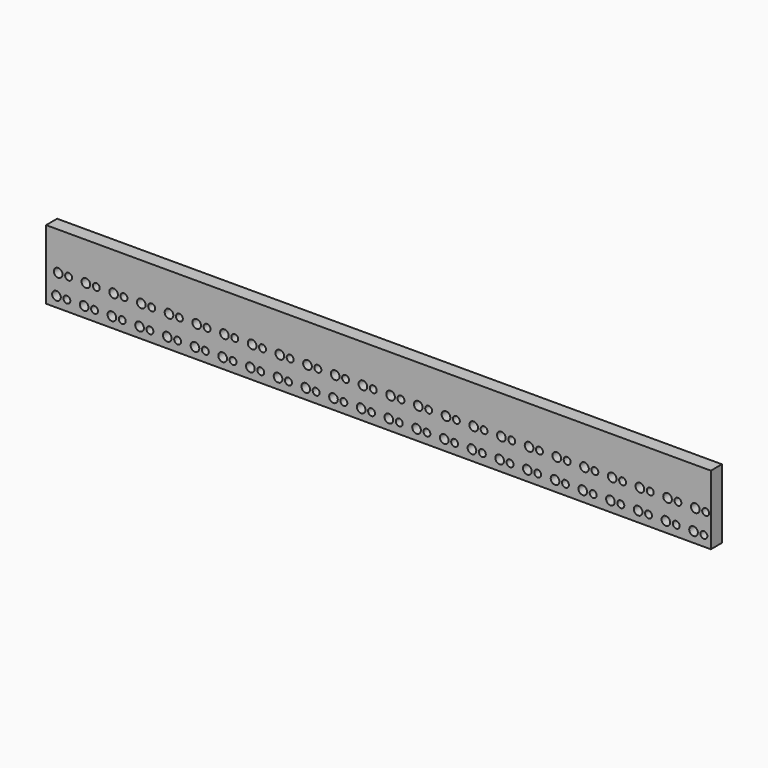
from build123d import *

# Parameters (mm, degrees)
F0_W     = 1219.2
F0_H     = 127
F0_R     = 7.9375
F0_R_2   = 6.35
F1_DEPTH = 25.4


with BuildPart() as f1:
    # F0 (on Front) → F1 (new body)
    with BuildSketch(Plane.XZ):
        with Locations((609.6, 246.335984)):
            Rectangle(F0_W, F0_H)
        with Locations((19.05, 201.885984)):
            Circle(F0_R, mode=Mode.SUBTRACT)
        with BuildLine():
            ThreePointArc((31.75, 201.885984), (38.1, 208.235984), (44.45, 201.885984))
            ThreePointArc((44.45, 201.885984), (38.1, 195.535984), (31.75, 201.885984))
        make_face(mode=Mode.SUBTRACT)
        with BuildLine():
            ThreePointArc((61.9125, 201.885984), (69.85, 209.823484), (77.7875, 201.885984))
            ThreePointArc((77.7875, 201.885984), (69.85, 193.948484), (61.9125, 201.885984))
        make_face(mode=Mode.SUBTRACT)
        with BuildLine():
            ThreePointArc((82.55, 201.885984), (88.9, 208.235984), (95.25, 201.885984))
            ThreePointArc((95.25, 201.885984), (88.9, 195.535984), (82.55, 201.885984))
        make_face(mode=Mode.SUBTRACT)
        with BuildLine():
            ThreePointArc((112.7125, 201.885984), (120.65, 209.823484), (128.5875, 201.885984))
            ThreePointArc((128.5875, 201.885984), (120.65, 193.948484), (112.7125, 201.885984))
        make_face(mode=Mode.SUBTRACT)
        with BuildLine():
            ThreePointArc((133.35, 201.885984), (139.7, 208.235984), (146.05, 201.885984))
            ThreePointArc((146.05, 201.885984), (139.7, 195.535984), (133.35, 201.885984))
        make_face(mode=Mode.SUBTRACT)
        with BuildLine():
            ThreePointArc((163.5125, 201.885984), (171.45, 209.823484), (179.3875, 201.885984))
            ThreePointArc((179.3875, 201.885984), (171.45, 193.948484), (163.5125, 201.885984))
        make_face(mode=Mode.SUBTRACT)
        with BuildLine():
            ThreePointArc((184.15, 201.885984), (190.5, 208.235984), (196.85, 201.885984))
            ThreePointArc((196.85, 201.885984), (190.5, 195.535984), (184.15, 201.885984))
        make_face(mode=Mode.SUBTRACT)
        with BuildLine():
            ThreePointArc((214.3125, 201.885984), (222.25, 209.823484), (230.1875, 201.885984))
            ThreePointArc((230.1875, 201.885984), (222.25, 193.948484), (214.3125, 201.885984))
        make_face(mode=Mode.SUBTRACT)
        with BuildLine():
            ThreePointArc((234.95, 201.885984), (241.3, 208.235984), (247.65, 201.885984))
            ThreePointArc((247.65, 201.885984), (241.3, 195.535984), (234.95, 201.885984))
        make_face(mode=Mode.SUBTRACT)
        with BuildLine():
            ThreePointArc((265.1125, 201.885984), (273.05, 209.823484), (280.9875, 201.885984))
            ThreePointArc((280.9875, 201.885984), (273.05, 193.948484), (265.1125, 201.885984))
        make_face(mode=Mode.SUBTRACT)
        with BuildLine():
            ThreePointArc((285.75, 201.885984), (292.1, 208.235984), (298.45, 201.885984))
            ThreePointArc((298.45, 201.885984), (292.1, 195.535984), (285.75, 201.885984))
        make_face(mode=Mode.SUBTRACT)
        with BuildLine():
            ThreePointArc((315.9125, 201.885984), (323.85, 209.823484), (331.7875, 201.885984))
            ThreePointArc((331.7875, 201.885984), (323.85, 193.948484), (315.9125, 201.885984))
        make_face(mode=Mode.SUBTRACT)
        with BuildLine():
            ThreePointArc((336.55, 201.885984), (342.9, 208.235984), (349.25, 201.885984))
            ThreePointArc((349.25, 201.885984), (342.9, 195.535984), (336.55, 201.885984))
        make_face(mode=Mode.SUBTRACT)
        with BuildLine():
            ThreePointArc((366.7125, 201.885984), (374.65, 209.823484), (382.5875, 201.885984))
            ThreePointArc((382.5875, 201.885984), (374.65, 193.948484), (366.7125, 201.885984))
        make_face(mode=Mode.SUBTRACT)
        with BuildLine():
            ThreePointArc((387.35, 201.885984), (393.7, 208.235984), (400.05, 201.885984))
            ThreePointArc((400.05, 201.885984), (393.7, 195.535984), (387.35, 201.885984))
        make_face(mode=Mode.SUBTRACT)
        with BuildLine():
            ThreePointArc((417.5125, 201.885984), (425.45, 209.823484), (433.3875, 201.885984))
            ThreePointArc((433.3875, 201.885984), (425.45, 193.948484), (417.5125, 201.885984))
        make_face(mode=Mode.SUBTRACT)
        with BuildLine():
            ThreePointArc((438.15, 201.885984), (444.5, 208.235984), (450.85, 201.885984))
            ThreePointArc((450.85, 201.885984), (444.5, 195.535984), (438.15, 201.885984))
        make_face(mode=Mode.SUBTRACT)
        with BuildLine():
            ThreePointArc((468.3125, 201.885984), (476.25, 209.823484), (484.1875, 201.885984))
            ThreePointArc((484.1875, 201.885984), (476.25, 193.948484), (468.3125, 201.885984))
        make_face(mode=Mode.SUBTRACT)
        with BuildLine():
            ThreePointArc((488.95, 201.885984), (495.3, 208.235984), (501.65, 201.885984))
            ThreePointArc((501.65, 201.885984), (495.3, 195.535984), (488.95, 201.885984))
        make_face(mode=Mode.SUBTRACT)
        with BuildLine():
            ThreePointArc((519.1125, 201.885984), (527.05, 209.823484), (534.9875, 201.885984))
            ThreePointArc((534.9875, 201.885984), (527.05, 193.948484), (519.1125, 201.885984))
        make_face(mode=Mode.SUBTRACT)
        with BuildLine():
            ThreePointArc((539.75, 201.885984), (546.1, 208.235984), (552.45, 201.885984))
            ThreePointArc((552.45, 201.885984), (546.1, 195.535984), (539.75, 201.885984))
        make_face(mode=Mode.SUBTRACT)
        with BuildLine():
            ThreePointArc((569.9125, 201.885984), (577.85, 209.823484), (585.7875, 201.885984))
            ThreePointArc((585.7875, 201.885984), (577.85, 193.948484), (569.9125, 201.885984))
        make_face(mode=Mode.SUBTRACT)
        with BuildLine():
            ThreePointArc((590.55, 201.885984), (596.9, 208.235984), (603.25, 201.885984))
            ThreePointArc((603.25, 201.885984), (596.9, 195.535984), (590.55, 201.885984))
        make_face(mode=Mode.SUBTRACT)
        with BuildLine():
            ThreePointArc((620.7125, 201.885984), (628.65, 209.823484), (636.5875, 201.885984))
            ThreePointArc((636.5875, 201.885984), (628.65, 193.948484), (620.7125, 201.885984))
        make_face(mode=Mode.SUBTRACT)
        with Locations((22.225, 239.985984)):
            Circle(F0_R, mode=Mode.SUBTRACT)
        with BuildLine():
            ThreePointArc((47.625, 239.985984), (41.275, 233.635984), (34.925, 239.985984))
            ThreePointArc((34.925, 239.985984), (41.275, 246.335984), (47.625, 239.985984))
        make_face(mode=Mode.SUBTRACT)
        with BuildLine():
            ThreePointArc((80.9625, 239.985984), (73.025, 232.048484), (65.0875, 239.985984))
            ThreePointArc((65.0875, 239.985984), (73.025, 247.923484), (80.9625, 239.985984))
        make_face(mode=Mode.SUBTRACT)
        with BuildLine():
            ThreePointArc((98.425, 239.985984), (92.075, 233.635984), (85.725, 239.985984))
            ThreePointArc((85.725, 239.985984), (92.075, 246.335984), (98.425, 239.985984))
        make_face(mode=Mode.SUBTRACT)
        with BuildLine():
            ThreePointArc((131.7625, 239.985984), (123.825, 232.048484), (115.8875, 239.985984))
            ThreePointArc((115.8875, 239.985984), (123.825, 247.923484), (131.7625, 239.985984))
        make_face(mode=Mode.SUBTRACT)
        with BuildLine():
            ThreePointArc((149.225, 239.985984), (142.875, 233.635984), (136.525, 239.985984))
            ThreePointArc((136.525, 239.985984), (142.875, 246.335984), (149.225, 239.985984))
        make_face(mode=Mode.SUBTRACT)
        with BuildLine():
            ThreePointArc((182.5625, 239.985984), (174.625, 232.048484), (166.6875, 239.985984))
            ThreePointArc((166.6875, 239.985984), (174.625, 247.923484), (182.5625, 239.985984))
        make_face(mode=Mode.SUBTRACT)
        with BuildLine():
            ThreePointArc((200.025, 239.985984), (193.675, 233.635984), (187.325, 239.985984))
            ThreePointArc((187.325, 239.985984), (193.675, 246.335984), (200.025, 239.985984))
        make_face(mode=Mode.SUBTRACT)
        with BuildLine():
            ThreePointArc((233.3625, 239.985984), (225.425, 232.048484), (217.4875, 239.985984))
            ThreePointArc((217.4875, 239.985984), (225.425, 247.923484), (233.3625, 239.985984))
        make_face(mode=Mode.SUBTRACT)
        with BuildLine():
            ThreePointArc((250.825, 239.985984), (244.475, 233.635984), (238.125, 239.985984))
            ThreePointArc((238.125, 239.985984), (244.475, 246.335984), (250.825, 239.985984))
        make_face(mode=Mode.SUBTRACT)
        with BuildLine():
            ThreePointArc((284.1625, 239.985984), (276.225, 232.048484), (268.2875, 239.985984))
            ThreePointArc((268.2875, 239.985984), (276.225, 247.923484), (284.1625, 239.985984))
        make_face(mode=Mode.SUBTRACT)
        with BuildLine():
            ThreePointArc((301.625, 239.985984), (295.275, 233.635984), (288.925, 239.985984))
            ThreePointArc((288.925, 239.985984), (295.275, 246.335984), (301.625, 239.985984))
        make_face(mode=Mode.SUBTRACT)
        with BuildLine():
            ThreePointArc((334.9625, 239.985984), (327.025, 232.048484), (319.0875, 239.985984))
            ThreePointArc((319.0875, 239.985984), (327.025, 247.923484), (334.9625, 239.985984))
        make_face(mode=Mode.SUBTRACT)
        with BuildLine():
            ThreePointArc((352.425, 239.985984), (346.075, 233.635984), (339.725, 239.985984))
            ThreePointArc((339.725, 239.985984), (346.075, 246.335984), (352.425, 239.985984))
        make_face(mode=Mode.SUBTRACT)
        with BuildLine():
            ThreePointArc((385.7625, 239.985984), (377.825, 232.048484), (369.8875, 239.985984))
            ThreePointArc((369.8875, 239.985984), (377.825, 247.923484), (385.7625, 239.985984))
        make_face(mode=Mode.SUBTRACT)
        with BuildLine():
            ThreePointArc((403.225, 239.985984), (396.875, 233.635984), (390.525, 239.985984))
            ThreePointArc((390.525, 239.985984), (396.875, 246.335984), (403.225, 239.985984))
        make_face(mode=Mode.SUBTRACT)
        with BuildLine():
            ThreePointArc((436.5625, 239.985984), (428.625, 232.048484), (420.6875, 239.985984))
            ThreePointArc((420.6875, 239.985984), (428.625, 247.923484), (436.5625, 239.985984))
        make_face(mode=Mode.SUBTRACT)
        with BuildLine():
            ThreePointArc((454.025, 239.985984), (447.675, 233.635984), (441.325, 239.985984))
            ThreePointArc((441.325, 239.985984), (447.675, 246.335984), (454.025, 239.985984))
        make_face(mode=Mode.SUBTRACT)
        with BuildLine():
            ThreePointArc((487.3625, 239.985984), (479.425, 232.048484), (471.4875, 239.985984))
            ThreePointArc((471.4875, 239.985984), (479.425, 247.923484), (487.3625, 239.985984))
        make_face(mode=Mode.SUBTRACT)
        with BuildLine():
            ThreePointArc((504.825, 239.985984), (498.475, 233.635984), (492.125, 239.985984))
            ThreePointArc((492.125, 239.985984), (498.475, 246.335984), (504.825, 239.985984))
        make_face(mode=Mode.SUBTRACT)
        with BuildLine():
            ThreePointArc((538.1625, 239.985984), (530.225, 232.048484), (522.2875, 239.985984))
            ThreePointArc((522.2875, 239.985984), (530.225, 247.923484), (538.1625, 239.985984))
        make_face(mode=Mode.SUBTRACT)
        with BuildLine():
            ThreePointArc((555.625, 239.985984), (549.275, 233.635984), (542.925, 239.985984))
            ThreePointArc((542.925, 239.985984), (549.275, 246.335984), (555.625, 239.985984))
        make_face(mode=Mode.SUBTRACT)
        with BuildLine():
            ThreePointArc((588.9625, 239.985984), (581.025, 232.048484), (573.0875, 239.985984))
            ThreePointArc((573.0875, 239.985984), (581.025, 247.923484), (588.9625, 239.985984))
        make_face(mode=Mode.SUBTRACT)
        with BuildLine():
            ThreePointArc((606.425, 239.985984), (600.075, 233.635984), (593.725, 239.985984))
            ThreePointArc((593.725, 239.985984), (600.075, 246.335984), (606.425, 239.985984))
        make_face(mode=Mode.SUBTRACT)
        with BuildLine():
            ThreePointArc((639.7625, 239.985984), (631.825, 232.048484), (623.8875, 239.985984))
            ThreePointArc((623.8875, 239.985984), (631.825, 247.923484), (639.7625, 239.985984))
        make_face(mode=Mode.SUBTRACT)
        with BuildLine():
            ThreePointArc((641.35, 201.885984), (647.7, 208.235984), (654.05, 201.885984))
            ThreePointArc((654.05, 201.885984), (647.7, 195.535984), (641.35, 201.885984))
        make_face(mode=Mode.SUBTRACT)
        with BuildLine():
            ThreePointArc((671.5125, 201.885984), (679.45, 209.823484), (687.3875, 201.885984))
            ThreePointArc((687.3875, 201.885984), (679.45, 193.948484), (671.5125, 201.885984))
        make_face(mode=Mode.SUBTRACT)
        with BuildLine():
            ThreePointArc((692.15, 201.885984), (698.5, 208.235984), (704.85, 201.885984))
            ThreePointArc((704.85, 201.885984), (698.5, 195.535984), (692.15, 201.885984))
        make_face(mode=Mode.SUBTRACT)
        with BuildLine():
            ThreePointArc((722.3125, 201.885984), (730.25, 209.823484), (738.1875, 201.885984))
            ThreePointArc((738.1875, 201.885984), (730.25, 193.948484), (722.3125, 201.885984))
        make_face(mode=Mode.SUBTRACT)
        with BuildLine():
            ThreePointArc((742.95, 201.885984), (749.3, 208.235984), (755.65, 201.885984))
            ThreePointArc((755.65, 201.885984), (749.3, 195.535984), (742.95, 201.885984))
        make_face(mode=Mode.SUBTRACT)
        with BuildLine():
            ThreePointArc((773.1125, 201.885984), (781.05, 209.823484), (788.9875, 201.885984))
            ThreePointArc((788.9875, 201.885984), (781.05, 193.948484), (773.1125, 201.885984))
        make_face(mode=Mode.SUBTRACT)
        with BuildLine():
            ThreePointArc((793.75, 201.885984), (800.1, 208.235984), (806.45, 201.885984))
            ThreePointArc((806.45, 201.885984), (800.1, 195.535984), (793.75, 201.885984))
        make_face(mode=Mode.SUBTRACT)
        with BuildLine():
            ThreePointArc((823.9125, 201.885984), (831.85, 209.823484), (839.7875, 201.885984))
            ThreePointArc((839.7875, 201.885984), (831.85, 193.948484), (823.9125, 201.885984))
        make_face(mode=Mode.SUBTRACT)
        with BuildLine():
            ThreePointArc((844.55, 201.885984), (850.9, 208.235984), (857.25, 201.885984))
            ThreePointArc((857.25, 201.885984), (850.9, 195.535984), (844.55, 201.885984))
        make_face(mode=Mode.SUBTRACT)
        with BuildLine():
            ThreePointArc((874.7125, 201.885984), (882.65, 209.823484), (890.5875, 201.885984))
            ThreePointArc((890.5875, 201.885984), (882.65, 193.948484), (874.7125, 201.885984))
        make_face(mode=Mode.SUBTRACT)
        with BuildLine():
            ThreePointArc((895.35, 201.885984), (901.7, 208.235984), (908.05, 201.885984))
            ThreePointArc((908.05, 201.885984), (901.7, 195.535984), (895.35, 201.885984))
        make_face(mode=Mode.SUBTRACT)
        with BuildLine():
            ThreePointArc((925.5125, 201.885984), (933.45, 209.823484), (941.3875, 201.885984))
            ThreePointArc((941.3875, 201.885984), (933.45, 193.948484), (925.5125, 201.885984))
        make_face(mode=Mode.SUBTRACT)
        with BuildLine():
            ThreePointArc((946.15, 201.885984), (952.5, 208.235984), (958.85, 201.885984))
            ThreePointArc((958.85, 201.885984), (952.5, 195.535984), (946.15, 201.885984))
        make_face(mode=Mode.SUBTRACT)
        with BuildLine():
            ThreePointArc((976.3125, 201.885984), (984.25, 209.823484), (992.1875, 201.885984))
            ThreePointArc((992.1875, 201.885984), (984.25, 193.948484), (976.3125, 201.885984))
        make_face(mode=Mode.SUBTRACT)
        with BuildLine():
            ThreePointArc((996.95, 201.885984), (1003.3, 208.235984), (1009.65, 201.885984))
            ThreePointArc((1009.65, 201.885984), (1003.3, 195.535984), (996.95, 201.885984))
        make_face(mode=Mode.SUBTRACT)
        with BuildLine():
            ThreePointArc((1027.1125, 201.885984), (1035.05, 209.823484), (1042.9875, 201.885984))
            ThreePointArc((1042.9875, 201.885984), (1035.05, 193.948484), (1027.1125, 201.885984))
        make_face(mode=Mode.SUBTRACT)
        with BuildLine():
            ThreePointArc((1047.75, 201.885984), (1054.1, 208.235984), (1060.45, 201.885984))
            ThreePointArc((1060.45, 201.885984), (1054.1, 195.535984), (1047.75, 201.885984))
        make_face(mode=Mode.SUBTRACT)
        with BuildLine():
            ThreePointArc((1077.9125, 201.885984), (1085.85, 209.823484), (1093.7875, 201.885984))
            ThreePointArc((1093.7875, 201.885984), (1085.85, 193.948484), (1077.9125, 201.885984))
        make_face(mode=Mode.SUBTRACT)
        with BuildLine():
            ThreePointArc((1098.55, 201.885984), (1104.9, 208.235984), (1111.25, 201.885984))
            ThreePointArc((1111.25, 201.885984), (1104.9, 195.535984), (1098.55, 201.885984))
        make_face(mode=Mode.SUBTRACT)
        with BuildLine():
            ThreePointArc((1128.7125, 201.885984), (1136.65, 209.823484), (1144.5875, 201.885984))
            ThreePointArc((1144.5875, 201.885984), (1136.65, 193.948484), (1128.7125, 201.885984))
        make_face(mode=Mode.SUBTRACT)
        with BuildLine():
            ThreePointArc((1149.35, 201.885984), (1155.7, 208.235984), (1162.05, 201.885984))
            ThreePointArc((1162.05, 201.885984), (1155.7, 195.535984), (1149.35, 201.885984))
        make_face(mode=Mode.SUBTRACT)
        with BuildLine():
            ThreePointArc((1179.5125, 201.885984), (1187.45, 209.823484), (1195.3875, 201.885984))
            ThreePointArc((1195.3875, 201.885984), (1187.45, 193.948484), (1179.5125, 201.885984))
        make_face(mode=Mode.SUBTRACT)
        with BuildLine():
            ThreePointArc((1212.85, 201.885984), (1206.5, 195.535984), (1200.15, 201.885984))
            ThreePointArc((1200.15, 201.885984), (1206.5, 208.235984), (1212.85, 201.885984))
        make_face(mode=Mode.SUBTRACT)
        with BuildLine():
            ThreePointArc((657.225, 239.985984), (650.875, 233.635984), (644.525, 239.985984))
            ThreePointArc((644.525, 239.985984), (650.875, 246.335984), (657.225, 239.985984))
        make_face(mode=Mode.SUBTRACT)
        with BuildLine():
            ThreePointArc((690.5625, 239.985984), (682.625, 232.048484), (674.6875, 239.985984))
            ThreePointArc((674.6875, 239.985984), (682.625, 247.923484), (690.5625, 239.985984))
        make_face(mode=Mode.SUBTRACT)
        with BuildLine():
            ThreePointArc((708.025, 239.985984), (701.675, 233.635984), (695.325, 239.985984))
            ThreePointArc((695.325, 239.985984), (701.675, 246.335984), (708.025, 239.985984))
        make_face(mode=Mode.SUBTRACT)
        with BuildLine():
            ThreePointArc((741.3625, 239.985984), (733.425, 232.048484), (725.4875, 239.985984))
            ThreePointArc((725.4875, 239.985984), (733.425, 247.923484), (741.3625, 239.985984))
        make_face(mode=Mode.SUBTRACT)
        with BuildLine():
            ThreePointArc((758.825, 239.985984), (752.475, 233.635984), (746.125, 239.985984))
            ThreePointArc((746.125, 239.985984), (752.475, 246.335984), (758.825, 239.985984))
        make_face(mode=Mode.SUBTRACT)
        with BuildLine():
            ThreePointArc((792.1625, 239.985984), (784.225, 232.048484), (776.2875, 239.985984))
            ThreePointArc((776.2875, 239.985984), (784.225, 247.923484), (792.1625, 239.985984))
        make_face(mode=Mode.SUBTRACT)
        with BuildLine():
            ThreePointArc((809.625, 239.985984), (803.275, 233.635984), (796.925, 239.985984))
            ThreePointArc((796.925, 239.985984), (803.275, 246.335984), (809.625, 239.985984))
        make_face(mode=Mode.SUBTRACT)
        with BuildLine():
            ThreePointArc((842.9625, 239.985984), (835.025, 232.048484), (827.0875, 239.985984))
            ThreePointArc((827.0875, 239.985984), (835.025, 247.923484), (842.9625, 239.985984))
        make_face(mode=Mode.SUBTRACT)
        with BuildLine():
            ThreePointArc((860.425, 239.985984), (854.075, 233.635984), (847.725, 239.985984))
            ThreePointArc((847.725, 239.985984), (854.075, 246.335984), (860.425, 239.985984))
        make_face(mode=Mode.SUBTRACT)
        with BuildLine():
            ThreePointArc((893.7625, 239.985984), (885.825, 232.048484), (877.8875, 239.985984))
            ThreePointArc((877.8875, 239.985984), (885.825, 247.923484), (893.7625, 239.985984))
        make_face(mode=Mode.SUBTRACT)
        with BuildLine():
            ThreePointArc((911.225, 239.985984), (904.875, 233.635984), (898.525, 239.985984))
            ThreePointArc((898.525, 239.985984), (904.875, 246.335984), (911.225, 239.985984))
        make_face(mode=Mode.SUBTRACT)
        with BuildLine():
            ThreePointArc((944.5625, 239.985984), (936.625, 232.048484), (928.6875, 239.985984))
            ThreePointArc((928.6875, 239.985984), (936.625, 247.923484), (944.5625, 239.985984))
        make_face(mode=Mode.SUBTRACT)
        with BuildLine():
            ThreePointArc((962.025, 239.985984), (955.675, 233.635984), (949.325, 239.985984))
            ThreePointArc((949.325, 239.985984), (955.675, 246.335984), (962.025, 239.985984))
        make_face(mode=Mode.SUBTRACT)
        with BuildLine():
            ThreePointArc((995.3625, 239.985984), (987.425, 232.048484), (979.4875, 239.985984))
            ThreePointArc((979.4875, 239.985984), (987.425, 247.923484), (995.3625, 239.985984))
        make_face(mode=Mode.SUBTRACT)
        with BuildLine():
            ThreePointArc((1012.825, 239.985984), (1006.475, 233.635984), (1000.125, 239.985984))
            ThreePointArc((1000.125, 239.985984), (1006.475, 246.335984), (1012.825, 239.985984))
        make_face(mode=Mode.SUBTRACT)
        with BuildLine():
            ThreePointArc((1046.1625, 239.985984), (1038.225, 232.048484), (1030.2875, 239.985984))
            ThreePointArc((1030.2875, 239.985984), (1038.225, 247.923484), (1046.1625, 239.985984))
        make_face(mode=Mode.SUBTRACT)
        with BuildLine():
            ThreePointArc((1063.625, 239.985984), (1057.275, 233.635984), (1050.925, 239.985984))
            ThreePointArc((1050.925, 239.985984), (1057.275, 246.335984), (1063.625, 239.985984))
        make_face(mode=Mode.SUBTRACT)
        with BuildLine():
            ThreePointArc((1096.9625, 239.985984), (1089.025, 232.048484), (1081.0875, 239.985984))
            ThreePointArc((1081.0875, 239.985984), (1089.025, 247.923484), (1096.9625, 239.985984))
        make_face(mode=Mode.SUBTRACT)
        with BuildLine():
            ThreePointArc((1114.425, 239.985984), (1108.075, 233.635984), (1101.725, 239.985984))
            ThreePointArc((1101.725, 239.985984), (1108.075, 246.335984), (1114.425, 239.985984))
        make_face(mode=Mode.SUBTRACT)
        with BuildLine():
            ThreePointArc((1147.7625, 239.985984), (1139.825, 232.048484), (1131.8875, 239.985984))
            ThreePointArc((1131.8875, 239.985984), (1139.825, 247.923484), (1147.7625, 239.985984))
        make_face(mode=Mode.SUBTRACT)
        with BuildLine():
            ThreePointArc((1165.225, 239.985984), (1158.875, 233.635984), (1152.525, 239.985984))
            ThreePointArc((1152.525, 239.985984), (1158.875, 246.335984), (1165.225, 239.985984))
        make_face(mode=Mode.SUBTRACT)
        with BuildLine():
            ThreePointArc((1198.5625, 239.985984), (1190.625, 232.048484), (1182.6875, 239.985984))
            ThreePointArc((1182.6875, 239.985984), (1190.625, 247.923484), (1198.5625, 239.985984))
        make_face(mode=Mode.SUBTRACT)
        with Locations((1209.675, 239.985984)):
            Circle(F0_R_2, mode=Mode.SUBTRACT)
    extrude(amount=F1_DEPTH)


solid = f1.part
